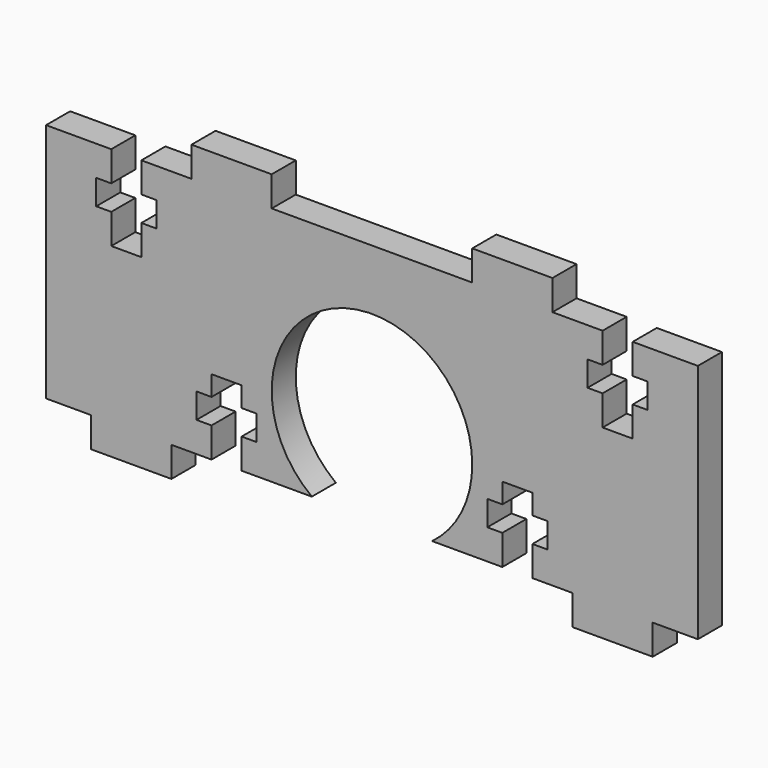
from build123d import *

# Parameters (mm, degrees)
F1_DEPTH = 3
F3_DEPTH = 3


with BuildPart() as f1:
    # F0 (on Front) → F1 (new body)
    with BuildSketch(Plane.XZ):
        with BuildLine():
            Line((28, -8), (32.5, -8))
            Line((32.5, -8), (32.5, 16))
            Line((32.5, 16), (18, 16))
            Line((18, 16), (18, 19))
            Line((18, 19), (10, 19))
            Line((10, 19), (10, 16))
            Line((10, 16), (0, 16))
            Line((0, 16), (-10, 16))
            Line((-10, 16), (-10, 19))
            Line((-10, 19), (-18, 19))
            Line((-18, 19), (-18, 16))
            Line((-18, 16), (-32.5, 16))
            Line((-32.5, 16), (-32.5, -8))
            Line((-32.5, -8), (-28, -8))
            Line((-28, -8), (-28, -11))
            Line((-28, -11), (-20, -11))
            Line((-20, -11), (-20, -8))
            Line((-20, -8), (-6, -8))
            ThreePointArc((-6, -8), (-4.472136, 8.944272), (10, 0))
            ThreePointArc((10, 0), (8.944272, -4.472136), (6, -8))
            Line((6, -8), (20, -8))
            Line((20, -8), (20, -11))
            Line((20, -11), (28, -11))
            Line((28, -11), (28, -8))
        make_face()
    extrude(amount=F1_DEPTH)

    # F2 (on face) → F3 (cut, through all)
    with BuildSketch(Plane(origin=(0, 0, 0), x_dir=(-1, 0, 0), z_dir=(0, 1, 0))):
        Polygon((13, -5), (13, -8), (16, -8), (16, -5), (17.5, -5), (17.5, -2.5), (16, -2.5), (16, -0.5), (13, -0.5), (13, -2.5), (11.5, -2.5), (11.5, -5), align=None)
        Polygon((-11.5, -2.5), (-13, -2.5), (-13, -0.5), (-16, -0.5), (-16, -2.5), (-17.5, -2.5), (-17.5, -5), (-16, -5), (-16, -8), (-13, -8), (-13, -5), (-11.5, -5), align=None)
        Polygon((26, 13), (26, 16), (23, 16), (23, 13), (21.5, 13), (21.5, 10.5), (23, 10.5), (23, 7.5), (26, 7.5), (26, 10.5), (27.5, 10.5), (27.5, 13), align=None)
        Polygon((-23, 10.5), (-21.5, 10.5), (-21.5, 13), (-23, 13), (-23, 16), (-26, 16), (-26, 13), (-27.5, 13), (-27.5, 10.5), (-26, 10.5), (-26, 7.5), (-23, 7.5), align=None)
    extrude(amount=-F3_DEPTH, mode=Mode.SUBTRACT)


solid = f1.part
